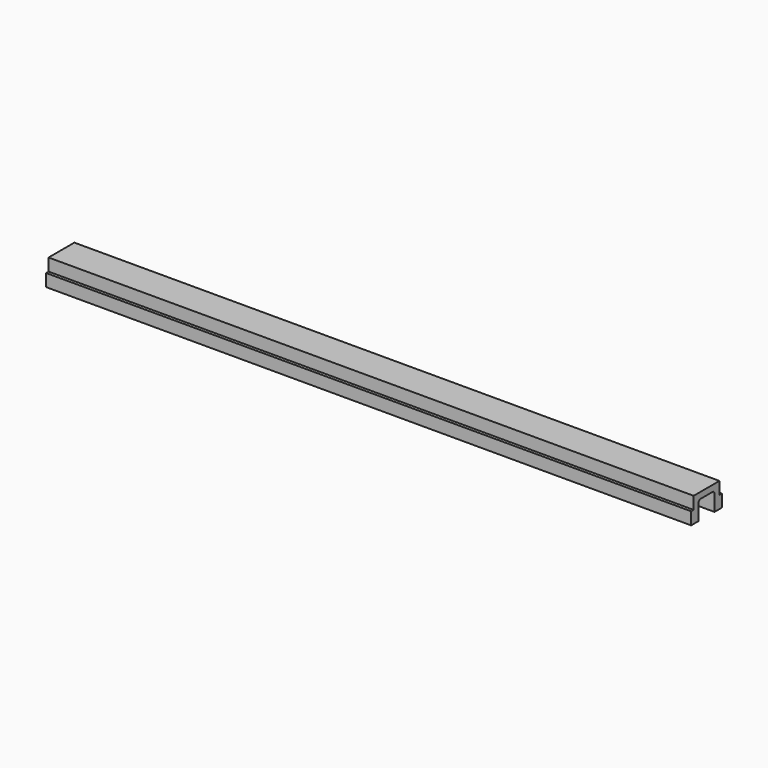
from build123d import *

# Parameters (mm, degrees)
F0_W          = 104
F0_H          = 5.2
F1_DEPTH      = 3
F0_H_2        = 2
F2_DEPTH      = 1
F2_DEPTH_BACK = 1
F3_W          = 1.5
F3_H          = 2
F4_DEPTH      = 104


with BuildPart() as f1:
    # F0 (on Top) → F1 (new body)
    with BuildSketch(Plane.XY):
        with Locations((7.6501901746, -8.5250005215)):
            Rectangle(F0_W, F0_H)
    extrude(amount=F1_DEPTH)

    # F0 (on Top) → F2 (join, two sides)
    with BuildSketch(Plane.XY) as f2_sk:
        with Locations((7.6501901746, -4.9250005215)):
            Rectangle(F0_W, F0_H_2)
        with Locations((7.6501901746, -8.5250005215)):
            Rectangle(F0_W, F0_H)
        with Locations((7.6501901746, -12.1250005215)):
            Rectangle(F0_W, F0_H_2)
    extrude(amount=-F2_DEPTH)
    extrude(f2_sk.sketch, amount=F2_DEPTH_BACK)

    # F3 (on face) → F4 (cut)
    with BuildSketch(Plane.YZ.offset(59.6501901746)):
        with Locations((-12.3750005215, 0)):
            Rectangle(F3_W, F3_H)
        with BuildLine():
            Line((-10.1250005215, -1), (-6.9250005215, -1))
            Line((-6.9250005215, -1), (-6.9250005215, 1.6))
            ThreePointArc((-6.9250005215, 1.6), (-7.0421578091, 1.8828427125), (-7.3250005215, 2))
            Line((-7.3250005215, 2), (-9.7250005215, 2))
            ThreePointArc((-9.7250005215, 2), (-10.007843234, 1.8828427125), (-10.1250005215, 1.6))
            Line((-10.1250005215, 1.6), (-10.1250005215, -1))
        make_face()
        with Locations((-4.6750005215, 0)):
            Rectangle(F3_W, F3_H)
    extrude(amount=-F4_DEPTH, mode=Mode.SUBTRACT)


solid = f1.part
